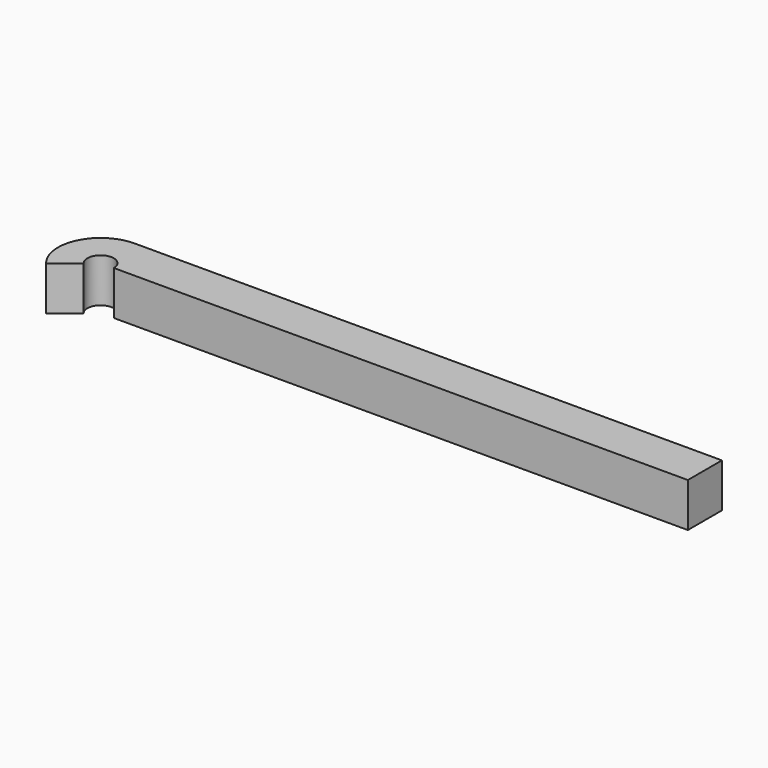
from build123d import *

# Parameters (mm, degrees)
F1_DEPTH = 3


with BuildPart() as f1:
    # F0 (on Top) → F1 (new body)
    with BuildSketch(Plane.XY):
        with BuildLine():
            ThreePointArc((-40.68944, -0.578509), (-40.307818, 0.845723), (-39.1, 0))
            Line((-39.1, 0), (-37.1, 0))
            Line((-37.1, 0), (0, 0))
            Line((0, 0), (0, 2.9))
            Line((0, 2.9), (-40, 2.9))
            ThreePointArc((-40, 2.9), (-42.628293, 1.225593), (-42.221529, -1.864084))
            Line((-42.221529, -1.864084), (-40.68944, -0.578509))
        make_face()
    extrude(amount=F1_DEPTH)


solid = f1.part
